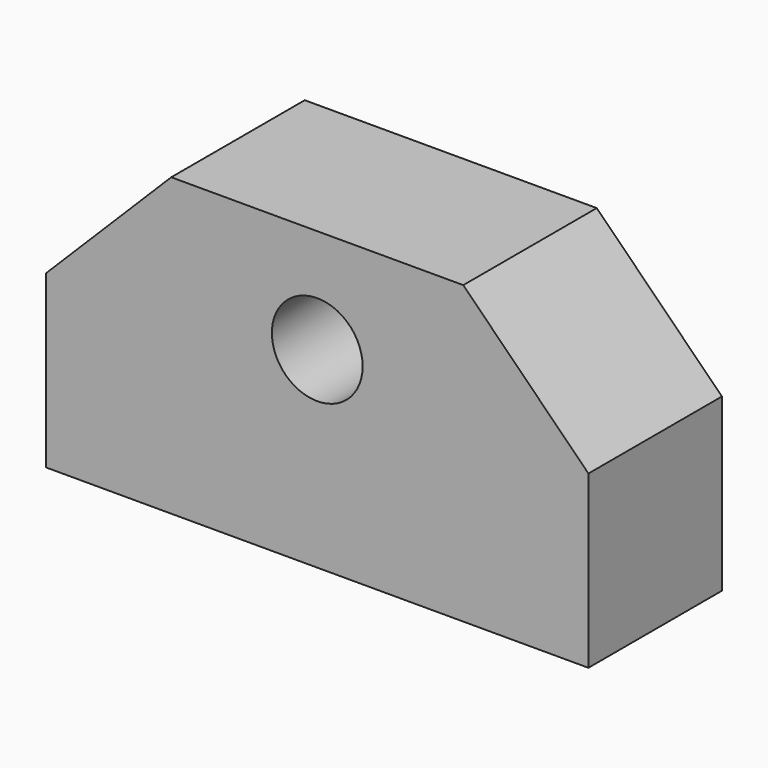
from build123d import *

# Parameters (mm, degrees)
F0_W     = 20.6375
F0_H     = 6.35
F1_DEPTH = 11.27125
F2_R     = 1.7272
F3_DEPTH = 6.35
F4_R     = 1.35255
F5_DEPTH = 4.7625
F6_SIZE  = 4.7625


with BuildPart() as f1:
    # F0 (on Top) → F1 (new body)
    with BuildSketch(Plane.XY):
        with Locations((10.31875, 3.175)):
            Rectangle(F0_W, F0_H)
    extrude(amount=F1_DEPTH)

    # F2 (on face) → F3 (cut, through all)
    with BuildSketch(Plane.XZ):
        with Locations((10.31875, 7.3025)):
            Circle(F2_R)
    extrude(amount=-F3_DEPTH, mode=Mode.SUBTRACT)

    # F4 (on face) → F5 (cut)
    with BuildSketch(Plane(origin=(0, 0, 0), x_dir=(1, 0, 0), z_dir=(0, 0, -1))):
        with Locations((3.175, -3.175)):
            Circle(F4_R)
        with Locations((17.4625, -3.175)):
            Circle(F4_R)
    extrude(amount=-F5_DEPTH, mode=Mode.SUBTRACT)

    # F6
    f6_edges = [f1.edges().sort_by_distance(p)[0] for p in [
        (0, 3.175, 11.27125),
        (20.6375, 3.175, 11.27125),
    ]]
    chamfer(f6_edges, length=F6_SIZE)


solid = f1.part
